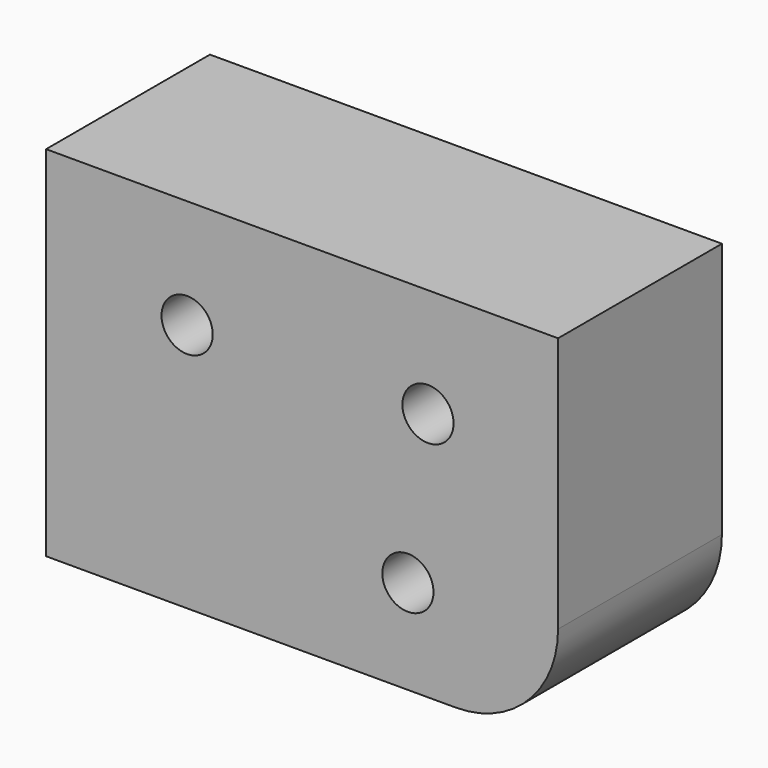
from build123d import *

# Parameters (mm, degrees)
F1_DEPTH = 25.4
F3_D     = 6.35


with BuildPart() as f1:
    # F0 (on Front) → F1 (new body)
    with BuildSketch(Plane.XZ):
        with BuildLine():
            Line((-31.75, -22.225), (19.05, -22.225))
            ThreePointArc((19.05, -22.225), (28.030256, -18.505256), (31.75, -9.525))
            Line((31.75, -9.525), (31.75, 22.225))
            Line((31.75, 22.225), (-31.75, 22.225))
            Line((-31.75, 22.225), (-31.75, -22.225))
        make_face()
    extrude(amount=F1_DEPTH)

    # F3 (through all)
    with Locations(Plane.XZ.offset(25.4)):
        with Locations((-14.257053, 8.712646), (15.614871, 8.712646), (13.125543, -10.523063)):
            Hole(F3_D / 2)


solid = f1.part
